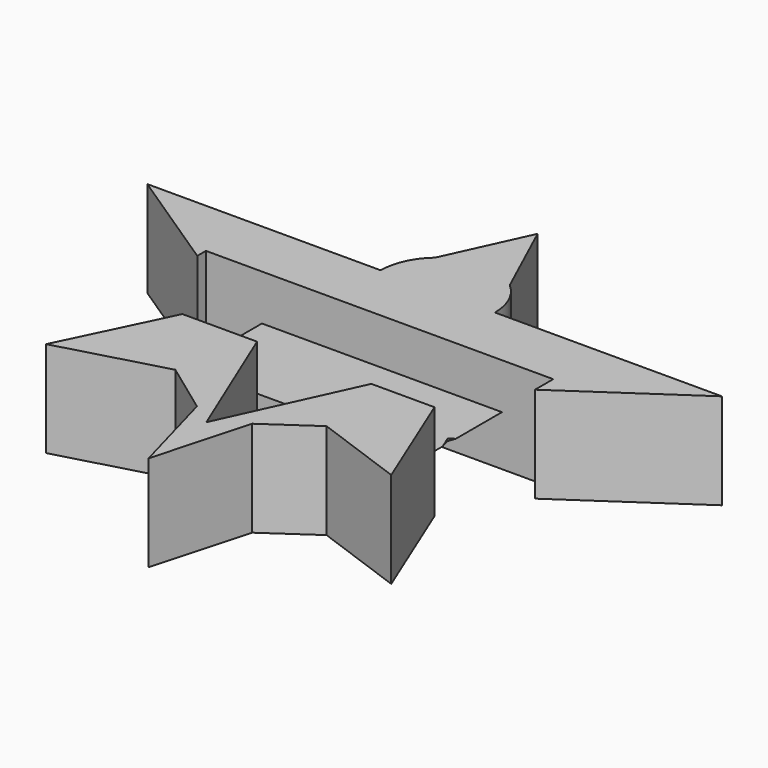
from build123d import *

# Parameters (mm, degrees)
F0_W     = 14.3528226763
F0_H     = 40.9249328077
F0_W_2   = 15.9044768661
F1_DEPTH = 25.4
F3_DEPTH = 36.322
F5_DEPTH = 25.146


with BuildPart() as f1:
    # F0 (on Top) → F1 (new body)
    with BuildSketch(Plane.XY):
        with Locations((-7.1764113382, 20.4624664038)):
            Rectangle(F0_W, F0_H)
        with Locations((7.9522384331, 20.4624664038)):
            Rectangle(F0_W_2, F0_H)
        Polygon((-29.3328283983, 9.9198052494), (-14.3528226763, 0), (-14.3528226763, 40.9249328077), align=None)
        Polygon((-5.9702647759, -30.3703169913), (-14.3528226763, 0), (-47.713432461, -28.1237699091), (-19.6796488017, -20.3861221671), align=None)
        Polygon((-47.713432461, -28.1237699091), (-14.3528226763, 0), (-29.3328283983, 9.9198052494), align=None)
        Polygon((0, -34.7183085978), (-14.3528226763, 0), (-5.9702647759, -30.3703169913), align=None)
        with BuildLine():
            Line((-14.3528226763, 40.9249328077), (0, 40.9249328077))
            Line((0, 40.9249328077), (15.9044768661, 40.9249328077))
            Line((15.9044768661, 40.9249328077), (10.6561835989, 52.3815727712))
            ThreePointArc((10.6561835989, 52.3815727712), (0.7758270949, 56.0535825789), (-9.1045294091, 52.3815727712))
            Line((-9.1045294091, 52.3815727712), (-14.3528226763, 40.9249328077))
        make_face()
        Polygon((28.9926118268, 8.9120575126), (15.9044768661, 0), (44.6101129055, -29.2875114828), align=None)
        Polygon((7.8085155122, -29.3319671142), (15.9044768661, 0), (0, -34.7183085978), align=None)
        Polygon((15.9044768661, 40.9249328077), (15.9044768661, 0), (28.9926118268, 8.9120575126), align=None)
        Polygon((44.6101129055, -29.2875114828), (15.9044768661, 0), (7.8085155122, -29.3319671142), (20.5186381936, -20.5644797534), align=None)
        Polygon((-29.3328283983, 9.9198052494), (-14.3528226763, 40.9249328077), (-76.1540085077, 40.9249328077), align=None)
        with BuildLine():
            ThreePointArc((-9.1045294091, 52.3815727712), (-12.9783085934, 47.2257101699), (-14.3528226763, 40.9249328077))
            Line((-14.3528226763, 40.9249328077), (-9.1045294091, 52.3815727712))
        make_face()
        Polygon((7.8085155122, -29.3319671142), (0, -34.7183085978), (-5.9702647759, -30.3703169913), (0.7758270949, -54.8116570932), align=None)
        Polygon((76.0063156486, 40.9249328077), (15.9044768661, 40.9249328077), (28.9926118268, 8.9120575126), align=None)
        with BuildLine():
            Line((10.6561835989, 52.3815727712), (15.9044768661, 40.9249328077))
            ThreePointArc((15.9044768661, 40.9249328077), (14.5299627832, 47.2257101699), (10.6561835989, 52.3815727712))
        make_face()
        with BuildLine():
            Line((0.7758270949, 73.9496676573), (-9.1045294091, 52.3815727712))
            ThreePointArc((-9.1045294091, 52.3815727712), (0.7758270949, 56.0535825789), (10.6561835989, 52.3815727712))
            Line((10.6561835989, 52.3815727712), (0.7758270949, 73.9496676573))
        make_face()
    extrude(amount=F1_DEPTH)

    # F2 (on Top) → F3 (cut)
    with BuildSketch(Plane.XY):
        Polygon((0, 17.6911037415), (0, 0), (26.803391082, 17.6601352598), align=None)
        Polygon((-27.6542542717, 17.7230553056), (0, 0), (0, 17.6911037415), align=None)
        Polygon((-44.7053313255, 28.6507476121), (-27.6542542717, 17.7230553056), (0, 17.6911037415), align=None)
        Polygon((0, 17.6911037415), (26.803391082, 17.6601352598), (43.3298423886, 28.5490322858), align=None)
        Polygon((-44.7053313255, 28.6507476121), (0, 17.6911037415), (43.3298423886, 28.5490322858), align=None)
    extrude(amount=-F3_DEPTH, mode=Mode.SUBTRACT)

    # F4 (on Front) → F5 (cut)
    with BuildSketch(Plane.XZ):
        with BuildLine():
            Line((43.9610369503, 0), (0, 0))
            Line((0, 0), (-48.0021461844, 0))
            ThreePointArc((-48.0021461844, 0), (-2.020554617, -23.4103047443), (43.9610369503, 0))
        make_face()
        Polygon((30.382517891, 13.2921541349), (0, 0), (43.9610369503, 0), (43.9610369503, 19.2326679826), align=None)
        Polygon((-48.0021461844, 0), (0, 0), (-33.1754245675, 13.2921541349), (-48.0021461844, 19.2326679826), align=None)
        Polygon((-48.0021461844, 19.2326679826), (-33.1754245675, 13.2921541349), (0, 13.2921541349), (0, 36.8990898132), align=None)
        Polygon((0, 13.2921541349), (30.382517891, 13.2921541349), (43.9610369503, 19.2326679826), (0, 36.8990898132), align=None)
        Polygon((-48.0021461844, 56.3966855407), (-48.0021461844, 19.2326679826), (0, 36.8990898132), (43.9610369503, 19.2326679826), (43.9610369503, 56.5599761903), (0, 56.3966855407), align=None)
    extrude(amount=-F5_DEPTH, mode=Mode.SUBTRACT)


solid = f1.part
